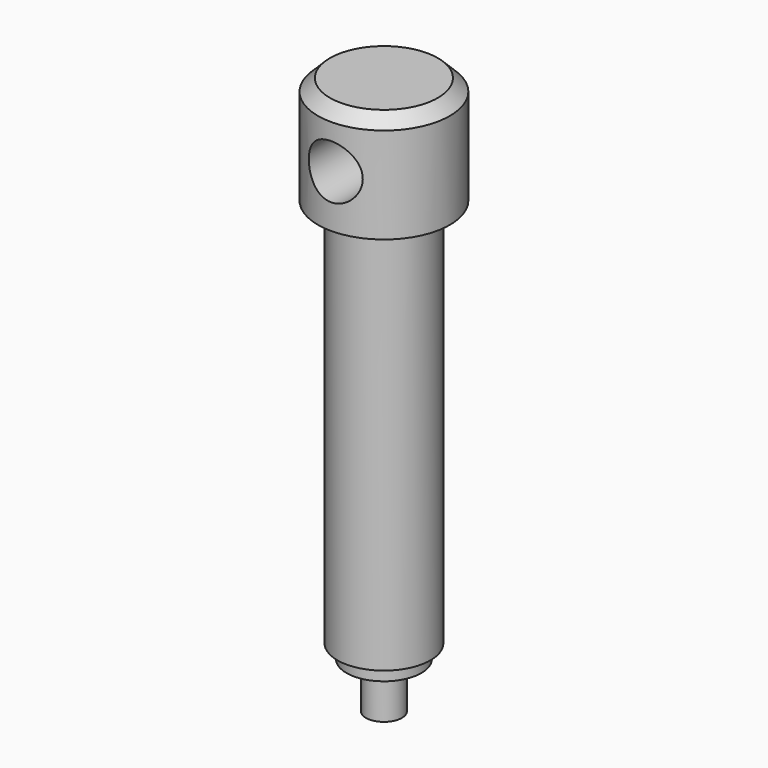
from build123d import *

# Parameters (mm, degrees)
F2_R          = 4.5
F3_DEPTH      = 11.001
F3_DEPTH_BACK = 11.001


with BuildPart() as f1:
    # F0 (on Front) → F1 (revolve)
    with BuildSketch(Plane.XZ):
        with BuildLine():
            Line((0, 93), (-9, 93))
            Line((-9, 93), (-11, 91))
            Line((-11, 91), (-11, 75))
            Line((-11, 75), (-7.75, 75))
            Line((-7.75, 75), (-7.75, 10))
            Line((-7.75, 10), (-6.25, 10))
            Line((-6.25, 10), (-6.25, 7.6494061584))
            ThreePointArc((-6.25, 7.6494061584), (-4.6480072532, 8.1922428302), (-3, 8.5731949353))
            Line((-3, 8.5731949353), (-3, 0))
            Line((-3, 0), (0, 0))
            Line((0, 0), (0, 93))
        make_face()
    revolve(axis=Axis((0, 0, 43.9324835315), (0, 0, 1)))

    # F2 (on Front) → F3 (cut, two sides)
    with BuildSketch(Plane.XZ) as f3_sk:
        with Locations((0, 83.7070196867)):
            Circle(F2_R)
    extrude(amount=-F3_DEPTH, mode=Mode.SUBTRACT)
    extrude(f3_sk.sketch, amount=F3_DEPTH_BACK, mode=Mode.SUBTRACT)


solid = f1.part
